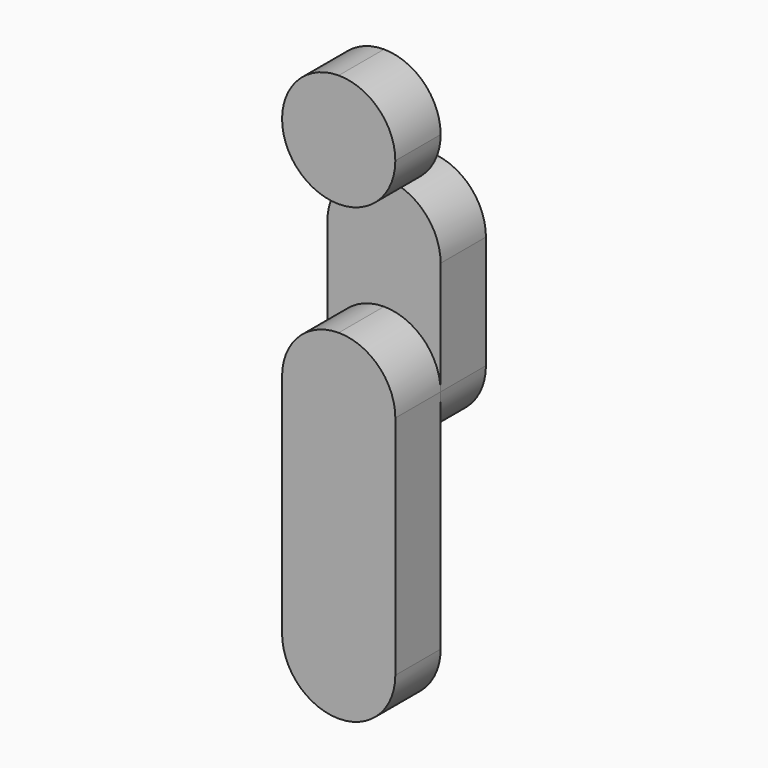
from build123d import *

# Parameters (mm, degrees)
F1_DEPTH = 5
F2_DEPTH = 5
F3_DEPTH = 5


with BuildPart() as f1:
    # F0 (on Front) → F1 (new body)
    with BuildSketch(Plane.XZ):
        with BuildLine():
            ThreePointArc((4.9999999867, -5), (8.5355339012, -3.5355339106), (10, 0))
            ThreePointArc((10, 0), (8.5355339059, 3.5355339059), (5, 5))
            ThreePointArc((5, 5), (1.4644660941, 3.5355339059), (0, 0))
            ThreePointArc((0, 0), (1.4644660894, -3.5355339012), (4.9999999867, -5))
        make_face()
        with BuildLine():
            ThreePointArc((0, -10), (1.4644660894, -6.4644660988), (4.9999999867, -5))
            ThreePointArc((4.9999999867, -5), (1.4644660894, -3.5355339012), (0, 0))
            Line((0, 0), (0, -10))
        make_face()
        with BuildLine():
            ThreePointArc((5, -15), (8.5355339059, -13.5355339059), (10, -10))
            ThreePointArc((10, -10), (8.5355339012, -6.4644660894), (4.9999999867, -5))
            ThreePointArc((4.9999999867, -5), (1.4644660894, -6.4644660988), (0, -10))
            ThreePointArc((0, -10), (1.4644660941, -13.5355339059), (5, -15))
        make_face()
        with BuildLine():
            ThreePointArc((0, -20), (1.4644660941, -16.4644660941), (5, -15))
            ThreePointArc((5, -15), (1.4644660941, -13.5355339059), (0, -10))
            Line((0, -10), (0, -20))
        make_face()
        with BuildLine():
            ThreePointArc((0, -20), (5, -25), (10, -20))
            ThreePointArc((10, -20), (8.5355339059, -16.4644660941), (5, -15))
            ThreePointArc((5, -15), (1.4644660941, -16.4644660941), (0, -20))
        make_face()
        with BuildLine():
            Line((10, -20), (10, -10))
            ThreePointArc((10, -10), (8.5355339059, -13.5355339059), (5, -15))
            ThreePointArc((5, -15), (8.5355339059, -16.4644660941), (10, -20))
        make_face()
        with BuildLine():
            Line((10, -10), (10, 0))
            ThreePointArc((10, 0), (8.5355339012, -3.5355339106), (4.9999999867, -5))
            ThreePointArc((4.9999999867, -5), (8.5355339012, -6.4644660894), (10, -10))
        make_face()
    extrude(amount=F1_DEPTH)


with BuildPart() as f2:
    # F0 (on Front) → F2 (new body)
    with BuildSketch(Plane.XZ):
        with BuildLine():
            ThreePointArc((4.9999999867, -5), (8.5355339012, -3.5355339106), (10, 0))
            ThreePointArc((10, 0), (8.5355339059, 3.5355339059), (5, 5))
            ThreePointArc((5, 5), (1.4644660941, 3.5355339059), (0, 0))
            ThreePointArc((0, 0), (1.4644660894, -3.5355339012), (4.9999999867, -5))
        make_face()
        with BuildLine():
            ThreePointArc((0, 0), (1.4644660941, 3.5355339059), (5, 5))
            ThreePointArc((5, 5), (1.4644660941, 6.4644660941), (0, 10))
            Line((0, 10), (0, 0))
        make_face()
        with BuildLine():
            ThreePointArc((5, 5), (8.5355339059, 3.5355339059), (10, 0))
            Line((10, 0), (10, 10))
            ThreePointArc((10, 10), (8.5355339059, 6.4644660941), (5, 5))
        make_face()
        with BuildLine():
            ThreePointArc((0, 10), (1.4644660941, 6.4644660941), (5, 5))
            ThreePointArc((5, 5), (8.5355339059, 6.4644660941), (10, 10))
            ThreePointArc((10, 10), (8.5355339059, 13.5355339059), (5, 15))
            ThreePointArc((5, 15), (1.4644660941, 13.5355339059), (0, 10))
        make_face()
    extrude(amount=-F2_DEPTH)


with BuildPart() as f3:
    # F0 (on Front) → F3 (new body)
    with BuildSketch(Plane.XZ):
        with BuildLine():
            ThreePointArc((5, 15), (8.5355339059, 16.4644660941), (10, 20))
            ThreePointArc((10, 20), (8.5355339249, 23.535533887), (5.0000000535, 25))
            ThreePointArc((5.0000000535, 25), (1.464466113, 23.5355339249), (0, 20))
            ThreePointArc((0, 20), (1.4644660941, 16.4644660941), (5, 15))
        make_face()
    extrude(amount=F3_DEPTH)


solid = Compound([f1.part, f2.part, f3.part])
